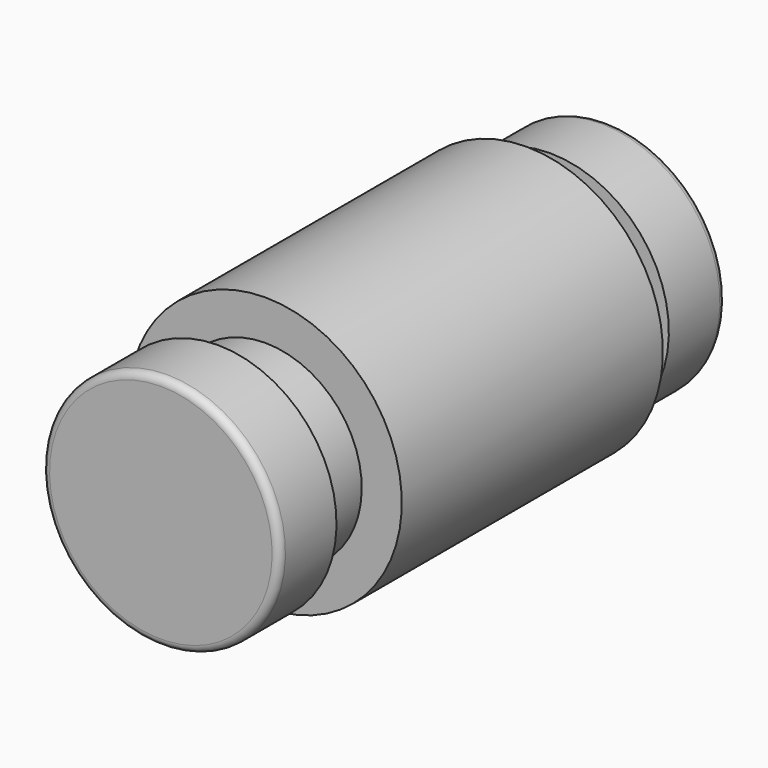
from build123d import *


with BuildPart() as f1:
    # F0 (on Right) → F1 (revolve)
    with BuildSketch(Plane.YZ):
        with BuildLine():
            Line((0, 3.75), (0, 0))
            Line((0, 0), (18.8, 0))
            Line((18.8, 0), (18.8, 3.75))
            ThreePointArc((18.8, 3.75), (18.726777, 3.926777), (18.55, 4))
            Line((18.55, 4), (16.4, 4))
            Line((16.4, 4), (16.4, 3.25))
            Line((16.4, 3.25), (15.4, 3.25))
            Line((15.4, 3.25), (15.4, 4.6))
            Line((15.4, 4.6), (4.4, 4.6))
            Line((4.4, 4.6), (4.4, 3.25))
            Line((4.4, 3.25), (2.4, 3.25))
            Line((2.4, 3.25), (2.4, 4))
            Line((2.4, 4), (0.25, 4))
            ThreePointArc((0.25, 4), (0.073223, 3.926777), (0, 3.75))
        make_face()
    revolve(axis=Axis((0, 9.4, 0), (0, 1, 0)))


solid = f1.part
